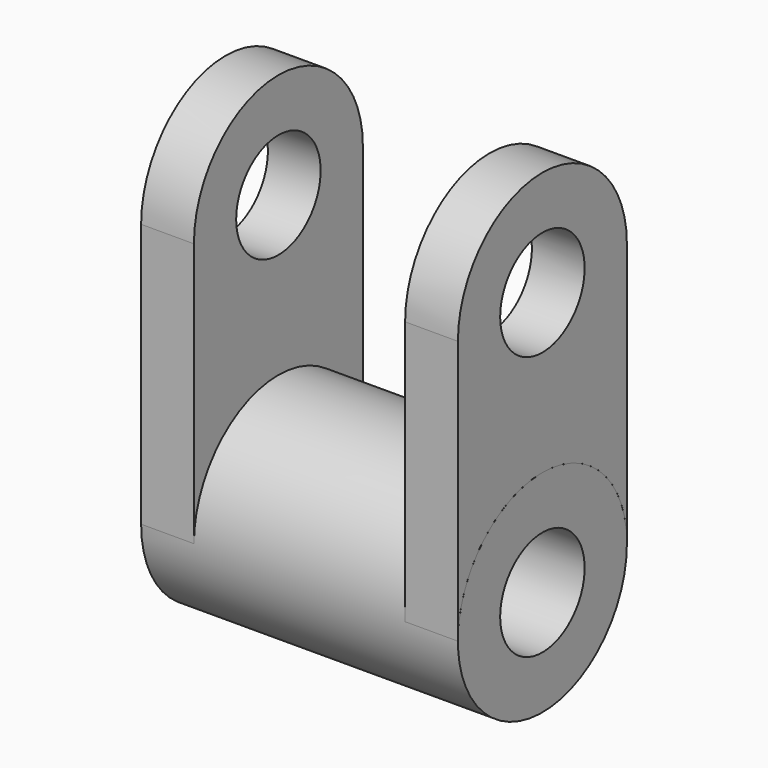
from build123d import *

# Parameters (mm, degrees)
F0_R     = 50.8
F1_DEPTH = 152.4
F3_DEPTH = 25.4
F5_DEPTH = 25.4
F6_R     = 25.4
F7_DEPTH = 152.401
F8_R     = 25.4
F9_DEPTH = 152.401


with BuildPart() as f1:
    # F0 (on Right) → F1 (new body)
    with BuildSketch(Plane.YZ):
        Circle(F0_R)
    extrude(amount=F1_DEPTH)

    # F4 (on face) → F5 (join)
    with BuildSketch(Plane(origin=(0, 0, 0), x_dir=(0, -1, 0), z_dir=(-1, 0, 0))):
        with BuildLine():
            Line((-50.8, 127), (-50.8, 0))
            Line((-50.8, 0), (50.8, 0))
            Line((50.8, 0), (50.8, 127))
            ThreePointArc((50.8, 127), (0, 177.8), (-50.8, 127))
        make_face()
    extrude(amount=-F5_DEPTH)


with BuildPart() as f3:
    # F2 (on face) → F3 (new body)
    with BuildSketch(Plane.YZ.offset(152.4)):
        with BuildLine():
            Line((-50.8, 127), (-50.8, 0))
            ThreePointArc((-50.8, 0), (0, 50.8), (50.8, 0))
            Line((50.8, 0), (50.8, 127))
            ThreePointArc((50.8, 127), (0, 177.8), (-50.8, 127))
        make_face()
    extrude(amount=-F3_DEPTH)


with BuildPart() as f7_tool:
    # F6 (on face) → F7 (new body, through all)
    with BuildSketch(Plane(origin=(0, 0, 0), x_dir=(0, -1, 0), z_dir=(-1, 0, 0))):
        with Locations((0, 127)):
            Circle(F6_R)
        Circle(F6_R)
    extrude(amount=-F7_DEPTH)


with BuildPart() as f1_1:
    add(f1.part)

    # F7: cut by f7_tool
    add(f7_tool.part, mode=Mode.SUBTRACT)

    # F8 (on face) → F9 (cut, through all)
    with BuildSketch(Plane.YZ.offset(152.4)):
        with Locations((0, 127)):
            Circle(F8_R)
    extrude(amount=-F9_DEPTH, mode=Mode.SUBTRACT)


with BuildPart() as f3_1:
    add(f3.part)

    # F7: cut by f7_tool
    add(f7_tool.part, mode=Mode.SUBTRACT)


solid = Compound([f1_1.part, f3_1.part])
